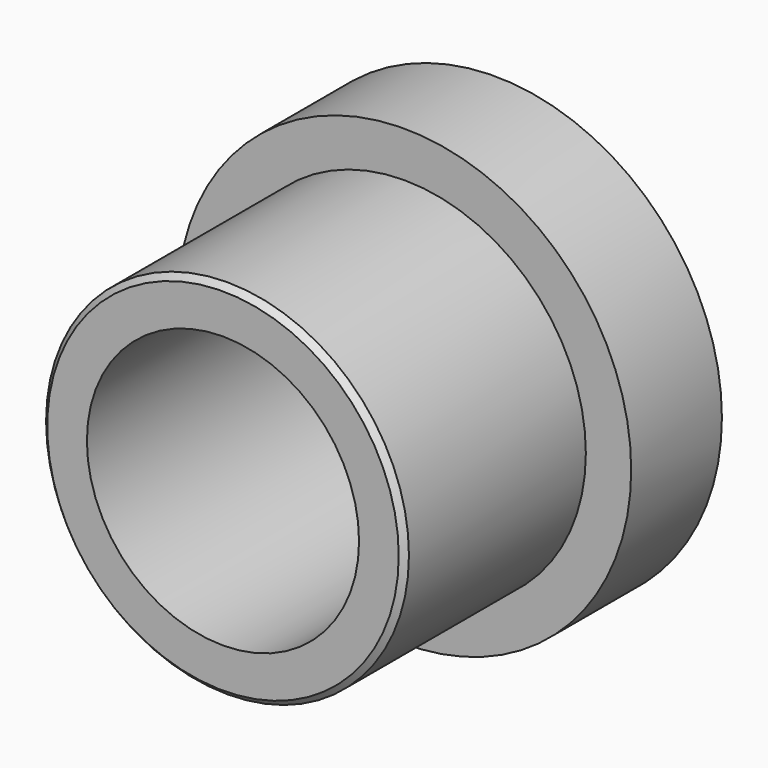
from build123d import *

# Parameters (mm, degrees)
F0_R     = 8
F0_R_2   = 6
F1_DEPTH = 15
F0_R_3   = 10
F2_DEPTH = 5
F3_SIZE  = 0.25


with BuildPart() as f1:
    # F0 (on Front) → F1 (new body)
    with BuildSketch(Plane.XZ):
        Circle(F0_R)
        Circle(F0_R_2, mode=Mode.SUBTRACT)
    extrude(amount=F1_DEPTH)

    # F0 (on Front) → F2 (join)
    with BuildSketch(Plane.XZ):
        Circle(F0_R_3)
        Circle(F0_R, mode=Mode.SUBTRACT)
    extrude(amount=F2_DEPTH)

    # F3
    f3_edges = [f1.edges().sort_by_distance(p)[0] for p in [
        (-8, -15, 0),
    ]]
    chamfer(f3_edges, length=F3_SIZE)


solid = f1.part
